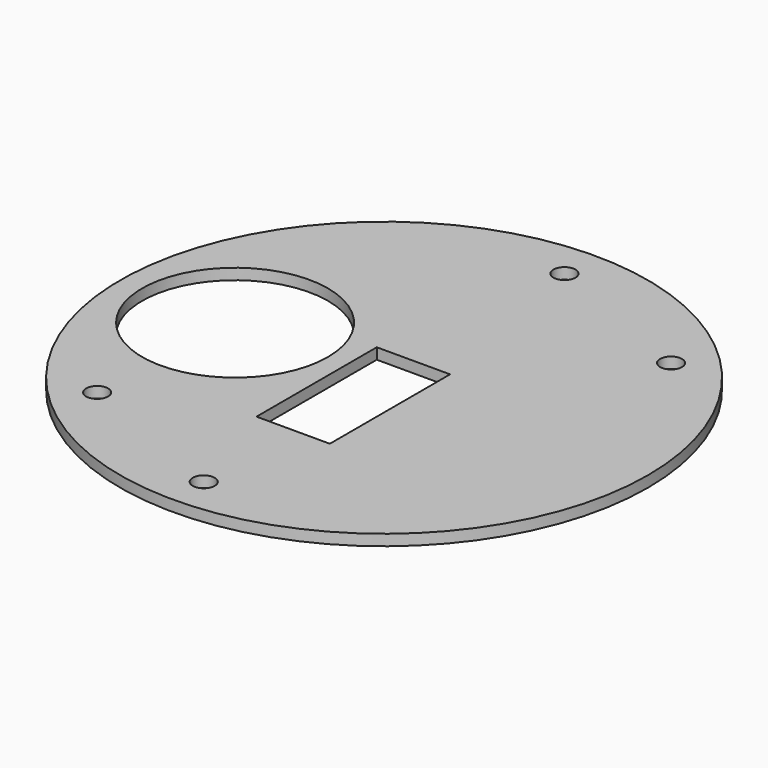
from build123d import *

# Parameters (mm, degrees)
F0_R     = 72
F0_R_2   = 3
F0_W     = 20
F0_H     = 41
F0_R_3   = 25.35
F1_DEPTH = 3


with BuildPart() as f1:
    # F0 (on Top) → F1 (new body)
    with BuildSketch(Plane.XY):
        Circle(F0_R)
        with Locations((-43.487067, -43.487067)):
            Circle(F0_R_2, mode=Mode.SUBTRACT)
        with Locations((0, -61.5)):
            Circle(F0_R_2, mode=Mode.SUBTRACT)
        with Locations((0, -10.5)):
            Rectangle(F0_W, F0_H, mode=Mode.SUBTRACT)
        with Locations((-40.65, 0)):
            Circle(F0_R_3, mode=Mode.SUBTRACT)
        with Locations((0, 61.5)):
            Circle(F0_R_2, mode=Mode.SUBTRACT)
        with Locations((43.487067, 43.487067)):
            Circle(F0_R_2, mode=Mode.SUBTRACT)
    extrude(amount=F1_DEPTH)


solid = f1.part
